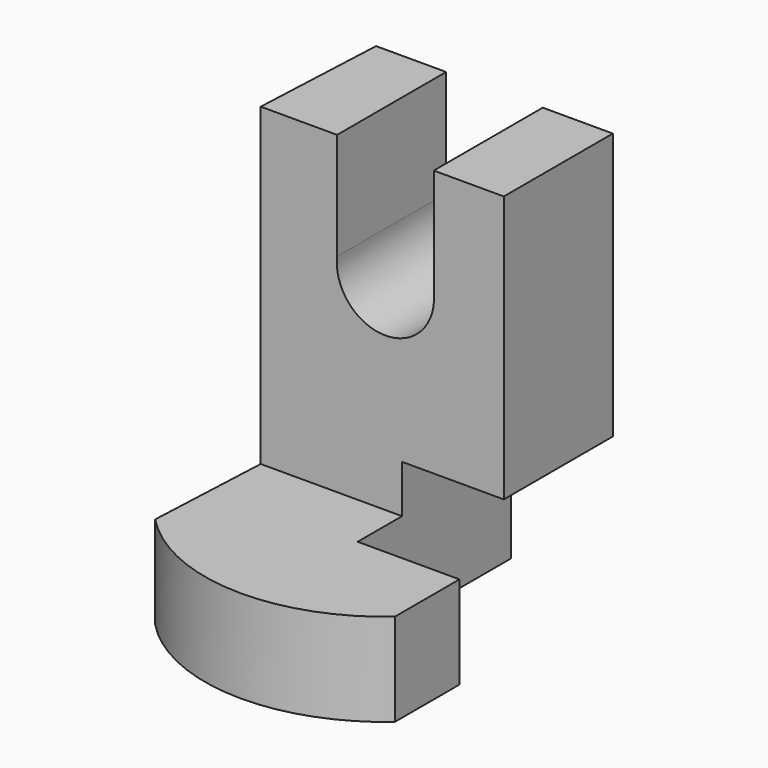
from build123d import *

# Parameters (mm, degrees)
F0_R      = 45.0325126913
F1_DEPTH  = 101.6
F3_DEPTH  = 78.486
F5_DEPTH  = 107.188
F7_DEPTH  = 186.944
F8_R      = 12.1282777673
F9_DEPTH  = 81.026
F10_W     = 24.1107804074
F10_H     = 34.6709556208
F11_DEPTH = 128.778
F13_DEPTH = 25.4
F14_W     = 27.1864784881
F14_H     = 35.0537188351
F15_DEPTH = 25.4


with BuildPart() as f1:
    # F0 (on Top) → F1 (new body)
    with BuildSketch(Plane.XY):
        Circle(F0_R)
    extrude(amount=F1_DEPTH)

    # F2 (on face) → F3 (cut)
    with BuildSketch(Plane.XY.offset(101.6)):
        Polygon((45.0325126913, 0), (-45.0325126913, 0), (-69.5492550731, 0), (45.0325126913, -116.2401661277), (161.6928875446, -116.2401661277), align=None)
    extrude(amount=-F3_DEPTH, mode=Mode.SUBTRACT)

    # F4 (on face) → F5 (cut)
    with BuildSketch(Plane.XY.offset(101.6)):
        Polygon((-61.1385696894, -57.6286986393), (-33.8673712273, -58.9006000359), (-28.4030238845, 58.2620206293), (-55.6742223466, 59.5339220259), align=None)
    extrude(amount=-F5_DEPTH, mode=Mode.SUBTRACT)

    # F6 (on face) → F7 (cut)
    with BuildSketch(Plane.XY.offset(101.6)):
        Polygon((-29.5348406238, 53.1750321388), (-29.5348406238, 33.9944170212), (29.5348406238, 33.9944170212), (29.5348406238, -32.5324498117), (45.0325126913, -32.5324498117), (45.0325126913, 59.2755898833), align=None)
    extrude(amount=-F7_DEPTH, mode=Mode.SUBTRACT)

    # F8 (on face) → F9 (cut)
    with BuildSketch(Plane.XZ):
        with Locations((0, 73.5739916563)):
            Circle(F8_R)
    extrude(amount=-F9_DEPTH, mode=Mode.SUBTRACT)

    # F10 (on face) → F11 (cut)
    with BuildSketch(Plane.XZ):
        with Locations((0, 89.5818066187)):
            Rectangle(F10_W, F10_H)
    extrude(amount=-F11_DEPTH, mode=Mode.SUBTRACT)

    # F12 (on face) → F13 (cut)
    with BuildSketch(Plane.YZ.offset(29.5348406238)):
        Polygon((0, -13.3575685322), (-16.2662249058, 23.114), (-67.4354508519, 30.6860208511), (-70.5883606289, 9.3796937905), (-70.5883606289, -6.5510598943), align=None)
    extrude(amount=F13_DEPTH, mode=Mode.SUBTRACT)

    # F14 (on face) → F15 (cut)
    with BuildSketch(Plane.YZ.offset(29.5348406238)):
        with Locations((-0.2370146103, 17.5268594176)):
            Rectangle(F14_W, F14_H)
        Polygon((13.3562246338, 35.0537188351), (13.3562246338, 0), (19.999248907, 0), (53.7981726229, 0), (53.7981726229, 35.0537188351), align=None)
    extrude(amount=-F15_DEPTH, mode=Mode.SUBTRACT)


solid = f1.part
